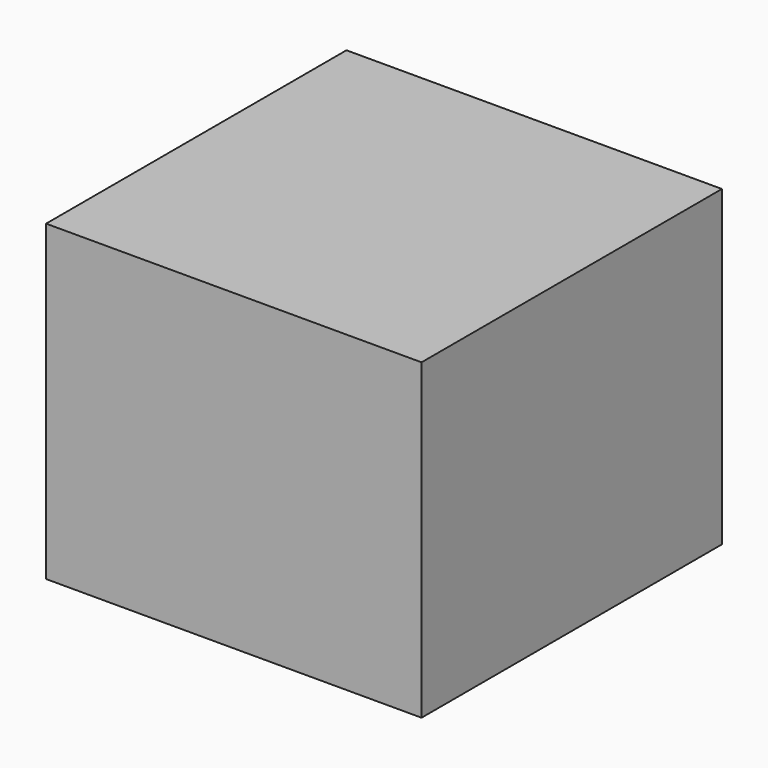
from build123d import *

# Parameters (mm, degrees)
SKETCH_W      = 60
SKETCH_H      = 60
EXTRUDE_DEPTH = 50


with BuildPart() as part:
    # Sketch → Extrude (new body)
    with BuildSketch(Plane.XY):
        Rectangle(SKETCH_W, SKETCH_H)
    extrude(amount=EXTRUDE_DEPTH)


solid = part.part
